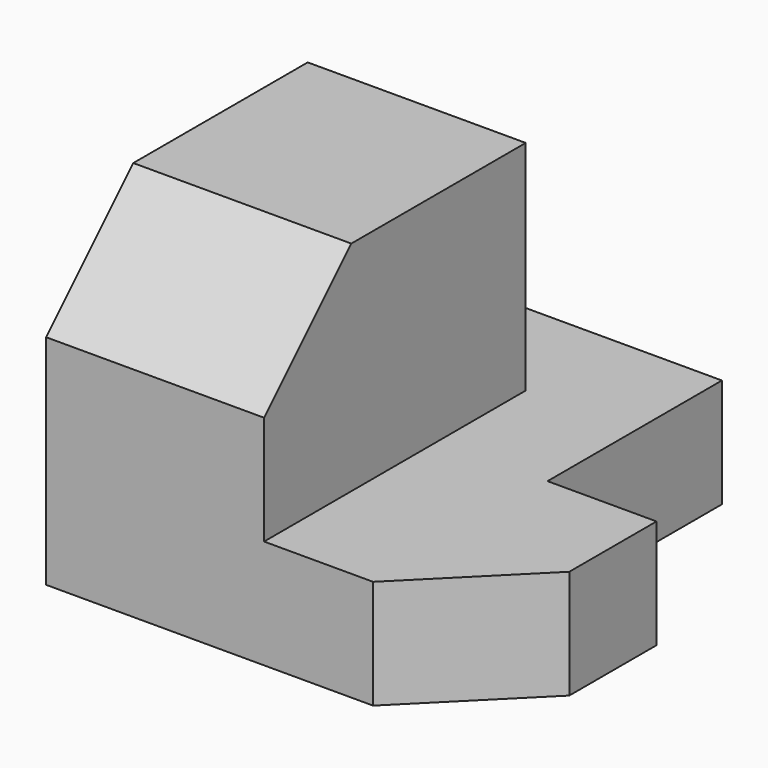
from build123d import *

# Parameters (mm, degrees)
F0_W     = 20
F0_H     = 10
F0_H_2   = 20
F1_DEPTH = 30
F3_DEPTH = 20
F5_DEPTH = 25


with BuildPart() as f1:
    # F0 (on Top) → F1 (new body)
    with BuildSketch(Plane.XY):
        with Locations((10, 5)):
            Rectangle(F0_W, F0_H)
        with Locations((10, 20)):
            Rectangle(F0_W, F0_H_2)
        Polygon((20, 10), (20, 0), (30, 0), (40, 10), (40, 20), (30, 20), (30, 40), (0, 40), (0, 30), (20, 30), align=None)
    extrude(amount=F1_DEPTH)

    # F2 (on face) → F3 (cut)
    with BuildSketch(Plane.XY.offset(30)):
        Polygon((30, 40), (0, 40), (0, 30), (20, 30), (20, 10), (20, 0), (30, 0), (40, 10), (40, 20), (30, 20), align=None)
    extrude(amount=-F3_DEPTH, mode=Mode.SUBTRACT)

    # F4 (on face) → F5 (cut)
    with BuildSketch(Plane.YZ.offset(20)):
        Polygon((10, 30), (0, 30), (0, 20), align=None)
    extrude(amount=-F5_DEPTH, mode=Mode.SUBTRACT)


solid = f1.part
